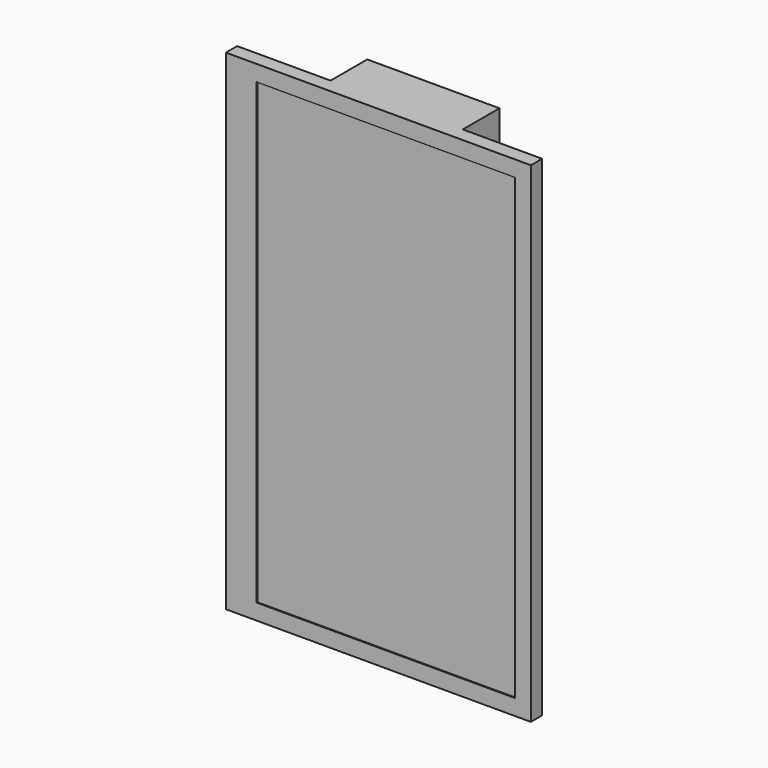
from build123d import *

# Parameters (mm, degrees)
F2_W     = 346
F2_H     = 556
F3_DEPTH = 15
F4_W     = 150
F4_H     = 556
F5_DEPTH = 52
F7_D     = 5
F7_DEPTH = 5
F7_TIP   = 1.5021515476
F8_W     = 346
F8_H     = 556
F8_W_2   = 293
F8_H_2   = 520
F9_DEPTH = 1


with BuildPart() as f3:
    # F2 (on Front) → F3 (new body)
    with BuildSketch(Plane.XZ):
        with Locations((-28.0021212956, 30.1194461733)):
            Rectangle(F2_W, F2_H)
    extrude(amount=-F3_DEPTH)

    # F4 (on face) → F5 (join)
    with BuildSketch(Plane(origin=(0, 15, 0), x_dir=(-1, 0, 0), z_dir=(0, 1, 0))):
        with Locations((20.0021212956, 30.1194461733)):
            Rectangle(F4_W, F4_H)
    extrude(amount=F5_DEPTH)

    # F7
    with Locations(Plane(origin=(0, 67, 0), x_dir=(-1, 0, 0), z_dir=(0, 1, 0))):
        with Locations((-28.9978787044, 92.1194461733), (71.0021212956, 92.1194461733), (71.0021212956, -7.8805538267), (-28.9978787044, -7.8805538267)):
            Hole(F7_D / 2, depth=F7_DEPTH)
            with Locations((0, 0, -(F7_DEPTH + F7_TIP / 2))):  # 118° drill point
                Cone(0, F7_D / 2, F7_TIP, mode=Mode.SUBTRACT)


with BuildPart() as f9:
    # F8 (on face) → F9 (new body)
    with BuildSketch(Plane.XZ):
        with Locations((-28.0021212956, 30.1194461733)):
            Rectangle(F8_W, F8_H)
        with Locations((-19.5021212956, 30.1194461733)):
            Rectangle(F8_W_2, F8_H_2, mode=Mode.SUBTRACT)
    extrude(amount=F9_DEPTH)


solid = Compound([f3.part, f9.part])
